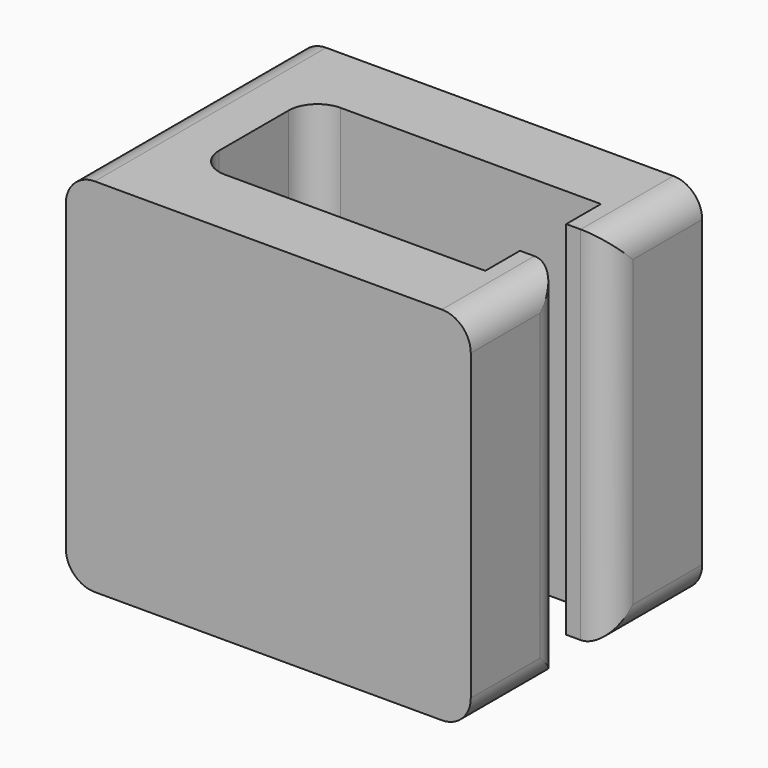
from build123d import *

# Parameters (mm, degrees)
F1_DEPTH = 25
F3_R     = 2


with BuildPart() as f1:
    # F0 (on Top) → F1 (new body)
    with BuildSketch(Plane.XY):
        Polygon((20, 2), (23, 2), (23, 10), (-5, 10), (-5, 0), (0, 0), (0, 5), (20, 5), align=None)
    extrude(amount=F1_DEPTH)

    # F2: F1 across plane


with BuildPart() as f1_1:
    add(f1.part)
    add(f1.part.mirror(Plane.XZ))

    # F3
    f3_edges = [f1_1.edges().sort_by_distance(p)[0] for p in [
        (0, 5, 12.5),
        (0, -5, 12.5),
        (23, 2, 12.5),
        (23, -2, 12.5),
        (-5, 0, 25),
        (-5, 0, 0),
        (23, 6, 25),
        (23, -6, 25),
        (23, -6, 0),
        (23, 6, 0),
    ]]
    fillet(f3_edges, radius=F3_R)


solid = f1_1.part
